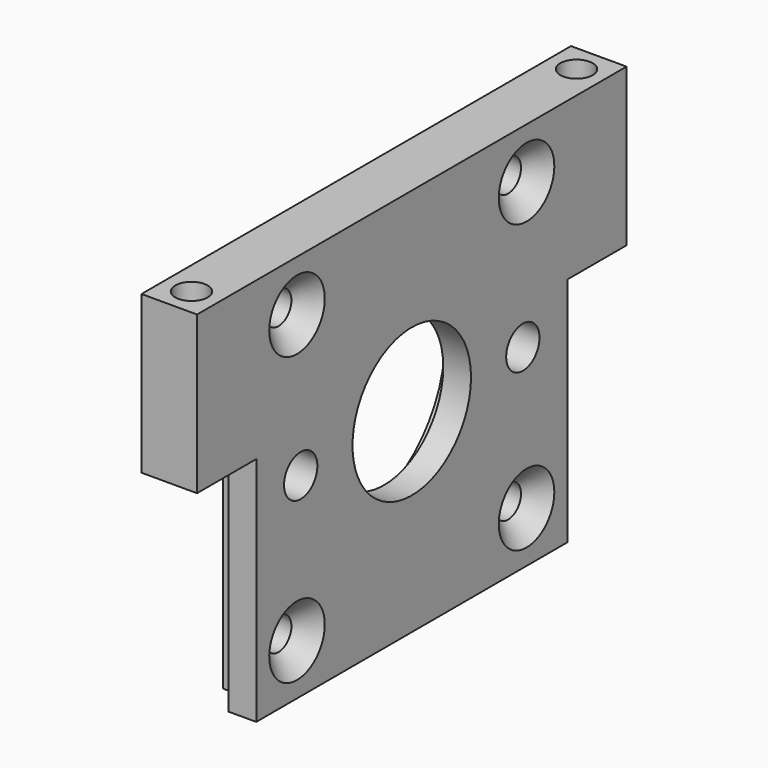
from build123d import *

# Parameters (mm, degrees)
SKETCH204_W             = 58
SKETCH204_H             = 6
SKETCH204_R             = 1.75
PAD052_DEPTH            = 21
POCKET125_DEPTH         = 168.722954
SKETCH203_R             = 8
SKETCH203_R_2           = 2.25
POCKET126_DEPTH         = 0.001
POCKET126_DEPTH_BACK    = 6.001
POLARPATTERN005_COUNT   = 4
SKETCH210_R             = 12
POCKET130_DEPTH         = 3.001
BODY111_ROLL_ANGLE      = -90
BODY111_PLACEMENT_ANGLE = 90


with BuildPart() as part:
    # Sketch204 → Pad052 (new body, symmetric)
    with BuildSketch(Plane.XZ):
        with Locations((0, 3)):
            Rectangle(SKETCH204_W, SKETCH204_H)
        with Locations((-26, 3)):
            Circle(SKETCH204_R, mode=Mode.SUBTRACT)
        with Locations((26, 3)):
            Circle(SKETCH204_R, mode=Mode.SUBTRACT)
    extrude(amount=PAD052_DEPTH, both=True)

    # Sketch205 → Pocket125 (cut, through all)
    with BuildSketch(Plane.XZ.offset(4)):
        Polygon((-29, 6), (-18, 6), (-18, 3), (-21, 3), (-21, 0), (-29, 0), align=None)
    pocket125 = extrude(amount=-POCKET125_DEPTH, mode=Mode.SUBTRACT)

    # Mirrored027: Pocket125 across YZ
    add(pocket125.mirror(Plane.YZ), mode=Mode.SUBTRACT)

    # Sketch203 → Pocket126 (cut, two sides)
    with BuildSketch(Plane.XY) as pocket126_sk:
        Circle(SKETCH203_R)
        with Locations((-15, 0)):
            Circle(SKETCH203_R_2)
        with Locations((15, 0)):
            Circle(SKETCH203_R_2)
    extrude(amount=-POCKET126_DEPTH, mode=Mode.SUBTRACT)
    extrude(pocket126_sk.sketch, amount=POCKET126_DEPTH_BACK, mode=Mode.SUBTRACT)

    # Sketch206 → Groove003 (revolve, cut)
    with BuildSketch(Plane.XZ.offset(15.5)):
        Polygon((-19.25, 0), (-15.5, 0), (-15.5, 6), (-17.25, 6), (-17.25, 2), align=None)
    groove003 = revolve(axis=Axis((-15.5, -15.5, 0), (0, 0, 1)), mode=Mode.SUBTRACT)

    # PolarPattern005: Groove003 ×4 about axis
    polarpattern005_axis = Axis((0, 0, 0), (0, 0, 1))
    for i in range(1, POLARPATTERN005_COUNT):
        add(groove003.rotate(polarpattern005_axis, i * 360 / POLARPATTERN005_COUNT), mode=Mode.SUBTRACT)

    # Sketch210 → Pocket130 (cut, through all)
    with BuildSketch(Plane.XY.offset(3)):
        Circle(SKETCH210_R)
    extrude(amount=POCKET130_DEPTH, mode=Mode.SUBTRACT)


with BuildPart() as part_1:
    # Body111 roll: moved
    add(part.part.rotate(Axis((0, 0, 0), (1, 0, 0)), BODY111_ROLL_ANGLE))


with BuildPart() as part_2:
    # Body111 placement: moved
    add(part_1.part.moved(Location((61, -70, 25))).rotate(Axis((61, -70, 25), (0, 0, 1)), BODY111_PLACEMENT_ANGLE))


solid = part_2.part
